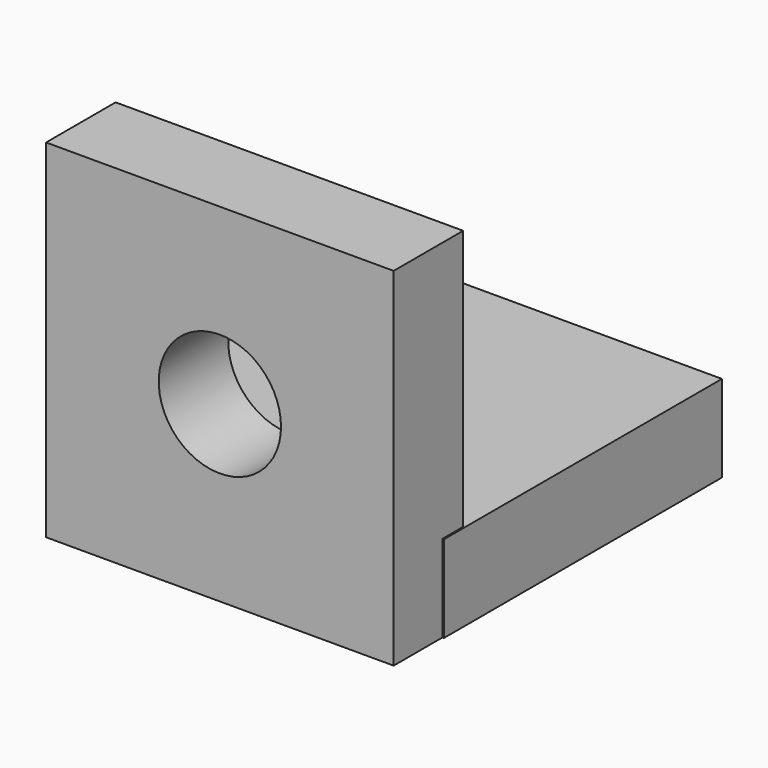
from build123d import *

# Parameters (mm, degrees)
F0_W     = 50.8
F0_H     = 50.8
F1_DEPTH = 12.7
F2_W     = 50.8
F2_H     = 50.8
F2_R     = 8.936433
F3_DEPTH = 12.7
F4_DEPTH = 12.7


with BuildPart() as f1:
    # F0 (on Top) → F1 (new body)
    with BuildSketch(Plane.XY):
        with Locations((-5.648404, 21.607813)):
            Rectangle(F0_W, F0_H)
    extrude(amount=F1_DEPTH)

    # F2 (on Front) → F3 (join)
    with BuildSketch(Plane.XZ):
        with Locations((-5.861539, 25.4)):
            Rectangle(F2_W, F2_H)
        with Locations((-5.861539, 25.4)):
            Circle(F2_R, mode=Mode.SUBTRACT)
    extrude(amount=F3_DEPTH)

    # F2 (on Front) → F4 (join)
    with BuildSketch(Plane.XZ):
        with Locations((-5.861539, 25.4)):
            Rectangle(F2_W, F2_H)
        with Locations((-5.861539, 25.4)):
            Circle(F2_R, mode=Mode.SUBTRACT)
    extrude(amount=F4_DEPTH)


solid = f1.part
